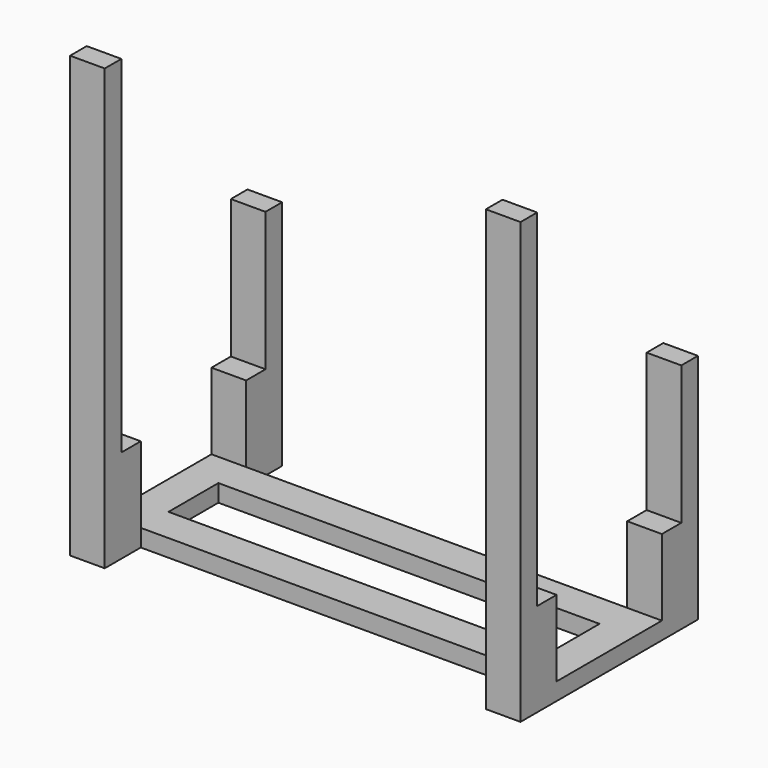
from build123d import *

# Parameters (mm, degrees)
SKETCH_W     = 110
SKETCH_H     = 18
PAD_DEPTH    = 5
SKETCH001_W  = 10
SKETCH001_H  = 13
PAD001_DEPTH = 22
SKETCH002_W  = 10
SKETCH002_H  = 6
PAD002_DEPTH = 40
SKETCH003_W  = 10
SKETCH003_H  = 6
PAD003_DEPTH = 100


with BuildPart() as part:
    # Sketch → Pad (new body)
    with BuildSketch(Plane(origin=(-14, -13, 0), x_dir=(1, 0, 0), z_dir=(0, 0, 1))):
        Polygon((-55, 19), (55, 19), (55, 32), (65, 32), (65, -32), (55, -32), (55, -19), (-55, -19), (-55, -32), (-65, -32), (-65, 32), (-55, 32), align=None)
        Rectangle(SKETCH_W, SKETCH_H, mode=Mode.SUBTRACT)
    extrude(amount=PAD_DEPTH)

    # Sketch001 → Pad001 (new body)
    with BuildSketch(Plane(origin=(-14, -13, 5), x_dir=(1, 0, 0), z_dir=(0, 0, 1))):
        with Locations((-60, 25.5)):
            Rectangle(SKETCH001_W, SKETCH001_H)
        with Locations((-60, -25.5)):
            Rectangle(SKETCH001_W, SKETCH001_H)
        with Locations((60, 25.5)):
            Rectangle(SKETCH001_W, SKETCH001_H)
        with Locations((60, -25.5)):
            Rectangle(SKETCH001_W, SKETCH001_H)
    extrude(amount=PAD001_DEPTH)

    # Sketch002 → Pad002 (new body)
    with BuildSketch(Plane(origin=(-14, -13, 27), x_dir=(1, 0, 0), z_dir=(0, 0, 1))):
        with Locations((-60, 29)):
            Rectangle(SKETCH002_W, SKETCH002_H)
    pad002 = extrude(amount=PAD002_DEPTH)

    # Mirrored: Pad002 across Sketch002 V_Axis
    add(pad002.mirror(Plane(origin=(-14, -13, 27), x_dir=(0, 0, 1), z_dir=(1, 0, 0))))

    # Sketch003 → Pad003 (new body)
    with BuildSketch(Plane(origin=(-14, -13, 27), x_dir=(1, 0, 0), z_dir=(0, 0, 1))):
        with Locations((-60, -29)):
            Rectangle(SKETCH003_W, SKETCH003_H)
    pad003 = extrude(amount=PAD003_DEPTH)

    # Mirrored001: Pad003 across Sketch003 V_Axis
    add(pad003.mirror(Plane(origin=(-14, -13, 27), x_dir=(0, 0, 1), z_dir=(1, 0, 0))))


solid = part.part
